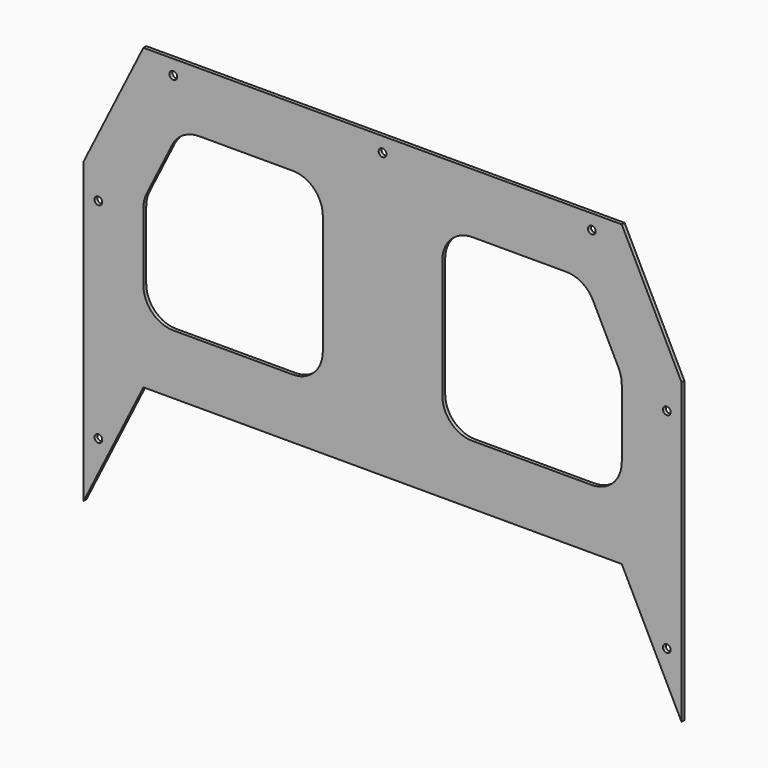
from build123d import *

# Parameters (mm, degrees)
F1_DEPTH = 3
F3_DEPTH = 3.001
F5_D     = 6.6


with BuildPart() as f1:
    # F0 (on Front) → F1 (new body)
    with BuildSketch(Plane.XZ):
        Polygon((-249.1925892383, 121.4087251365), (-249.1925892383, -132.5912748635), (-198.3925892383, -30.9912748635), (208.0074107617, -30.9912748635), (258.8074107617, -132.5912748635), (258.8074107617, 121.4087251365), (208.0074107617, 223.0087251365), (-198.3925892383, 223.0087251365), align=None)
    extrude(amount=F1_DEPTH)

    # F2 (on face) → F3 (cut, through all)
    with BuildSketch(Plane.XZ.offset(3)):
        with BuildLine():
            ThreePointArc((-198.3925892383, 45.2087251365), (-190.9531014804, 27.2482128944), (-172.9925892383, 19.8087251365))
            Line((-172.9925892383, 19.8087251365), (-71.3925892383, 19.8087251365))
            ThreePointArc((-71.3925892383, 19.8087251365), (-53.4320769961, 27.2482128944), (-45.9925892383, 45.2087251365))
            Line((-45.9925892383, 45.2087251365), (-45.9925892383, 146.8087251365))
            ThreePointArc((-45.9925892383, 146.8087251365), (-53.4320769961, 164.7692373787), (-71.3925892383, 172.2087251365))
            Line((-71.3925892383, 172.2087251365), (-151.2983992955, 172.2087251365))
            ThreePointArc((-151.2983992955, 172.2087251365), (-164.6519695434, 168.4152556687), (-174.0168499469, 158.1679504622))
            Line((-174.0168499469, 158.1679504622), (-195.7110398897, 114.7795705767))
            ThreePointArc((-195.7110398897, 114.7795705767), (-197.7131135708, 109.2560694329), (-198.3925892383, 103.420345251))
            Line((-198.3925892383, 103.420345251), (-198.3925892383, 45.2087251365))
        make_face()
        with BuildLine():
            ThreePointArc((208.0074107617, 103.420345251), (207.3279350942, 109.2560694329), (205.3258614131, 114.7795705767))
            Line((205.3258614131, 114.7795705767), (183.6316714704, 158.1679504622))
            ThreePointArc((183.6316714704, 158.1679504622), (174.2667910668, 168.4152556687), (160.913220819, 172.2087251365))
            Line((160.913220819, 172.2087251365), (81.0074107617, 172.2087251365))
            ThreePointArc((81.0074107617, 172.2087251365), (63.0468985196, 164.7692373787), (55.6074107617, 146.8087251365))
            Line((55.6074107617, 146.8087251365), (55.6074107617, 45.2087251365))
            ThreePointArc((55.6074107617, 45.2087251365), (63.0468985196, 27.2482128944), (81.0074107617, 19.8087251365))
            Line((81.0074107617, 19.8087251365), (182.6074107617, 19.8087251365))
            ThreePointArc((182.6074107617, 19.8087251365), (200.5679230039, 27.2482128944), (208.0074107617, 45.2087251365))
            Line((208.0074107617, 45.2087251365), (208.0074107617, 103.420345251))
        make_face()
    extrude(amount=-F3_DEPTH, mode=Mode.SUBTRACT)

    # F5 (through all)
    with Locations(Plane.XZ.offset(3)):
        with Locations((-172.9925892383, 210.5087251365), (4.8074107617, 210.5087251365), (182.6074107617, 210.5087251365), (246.3074107617, 96.0087251365), (246.3074107617, -81.7912748635), (-236.6925892383, -81.7912748635), (-236.6925892383, 96.0087251365)):
            Hole(F5_D / 2)


solid = f1.part
